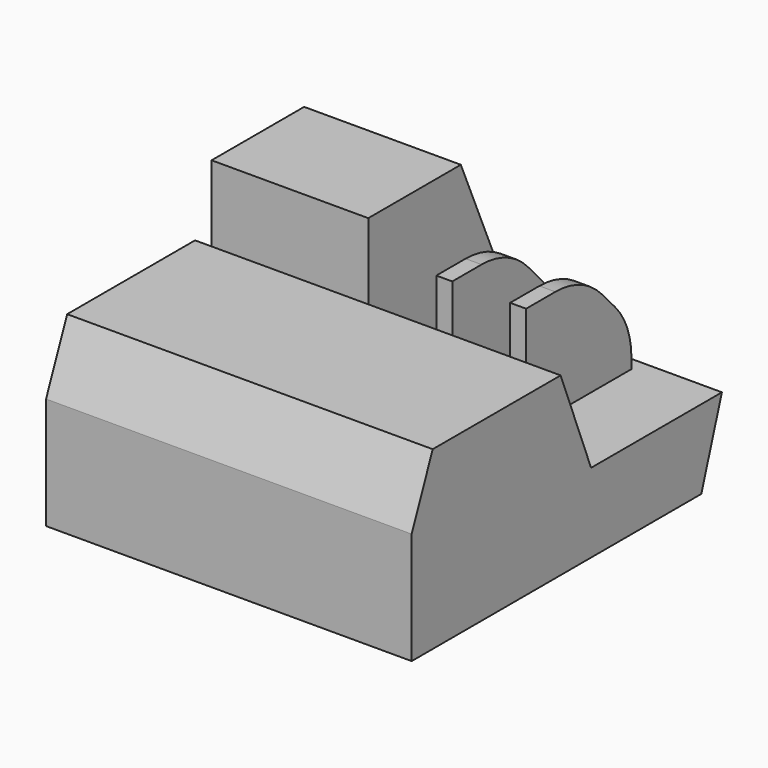
from build123d import *

# Parameters (mm, degrees)
F1_DEPTH = 60
F3_DEPTH = 80
F4_W     = 6.1120763421
F4_H     = 50.4245881457
F5_DEPTH = 57.3
F7_DEPTH = 45.7
F8_R     = 30


with BuildPart() as f1:
    # F0 (on Right) → F1 (new body)
    with BuildSketch(Plane.YZ):
        Polygon((-85.0046053529, 28.4824129194), (-95.0890108943, 3.9917188697), (-95.0890108943, -38.8669967651), (43.5715354979, -38.8669967651), (54.0160946548, -6.812999025), (28.4449271858, 52.252791822), (-15.8544126898, 52.252791822), (-15.8544126898, 8.3136055619), (-23.7778741866, 28.4824129194), align=None)
    extrude(amount=F1_DEPTH)

    # F2 (on face) → F3 (join)
    with BuildSketch(Plane.YZ.offset(60)):
        Polygon((-9.2091018375, -8.6017280287), (-15.8544126898, 8.3136055619), (-23.7778741866, 28.4824129194), (-85.0046053529, 28.4824129194), (-95.0890108943, 3.9917188697), (-95.0890108943, -38.8669967651), (43.5715354979, -38.8669967651), (53.433250479, -8.6017280287), align=None)
    extrude(amount=F3_DEPTH)

    # F4 (on face) → F5 (join)
    with BuildSketch(Plane.XY.offset(-8.6017280287)):
        with Locations((78.1879983842, 23.0138575425)):
            Rectangle(F4_W, F4_H)
        with Locations((106.4563281834, 23.0138575425)):
            Rectangle(F4_W, F4_H)
    extrude(amount=F5_DEPTH)

    # F6 (on face) → F7 (cut)
    with BuildSketch(Plane.YZ.offset(109.5123663545)):
        Polygon((-2.1984365303, 48.6982719713), (-2.1984365303, 32.272413373), (24.9238815159, 32.272413373), (48.2261516154, 7.0601203479), (48.2261516154, 48.6982719713), align=None)
    extrude(amount=-F7_DEPTH, mode=Mode.SUBTRACT)

    # F8
    f8_edges = [f1.edges().sort_by_distance(p)[0] for p in [
        (106.456328, 48.226152, 7.06012),
        (106.456328, 24.923882, 32.272413),
        (78.187998, 24.923882, 32.272413),
        (78.187998, 48.226152, 7.06012),
    ]]
    fillet(f8_edges, radius=F8_R)


solid = f1.part
